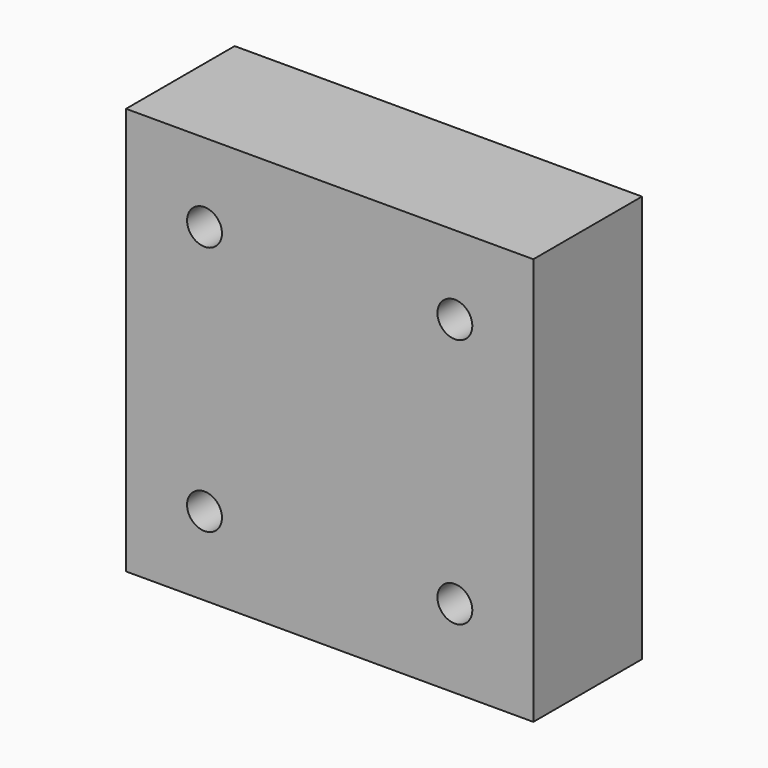
from build123d import *

# Parameters (mm, degrees)
F0_W     = 76.2
F0_H     = 76.2
F1_DEPTH = 25.4
F3_D     = 6.5278
F3_DEPTH = 16.9333333333
F3_TIP   = 1.9611489744


with BuildPart() as f1:
    # F0 (on Front) → F1 (new body)
    with BuildSketch(Plane.XZ):
        Rectangle(F0_W, F0_H)
    extrude(amount=F1_DEPTH)

    # F3
    with Locations(Plane.XZ.offset(25.4)):
        with Locations((-23.415625, 23.415625), (23.415625, 23.415625), (23.415625, -23.415625), (-23.415625, -23.415625)):
            Hole(F3_D / 2, depth=F3_DEPTH)
            with Locations((0, 0, -(F3_DEPTH + F3_TIP / 2))):  # 118° drill point
                Cone(0, F3_D / 2, F3_TIP, mode=Mode.SUBTRACT)


solid = f1.part
